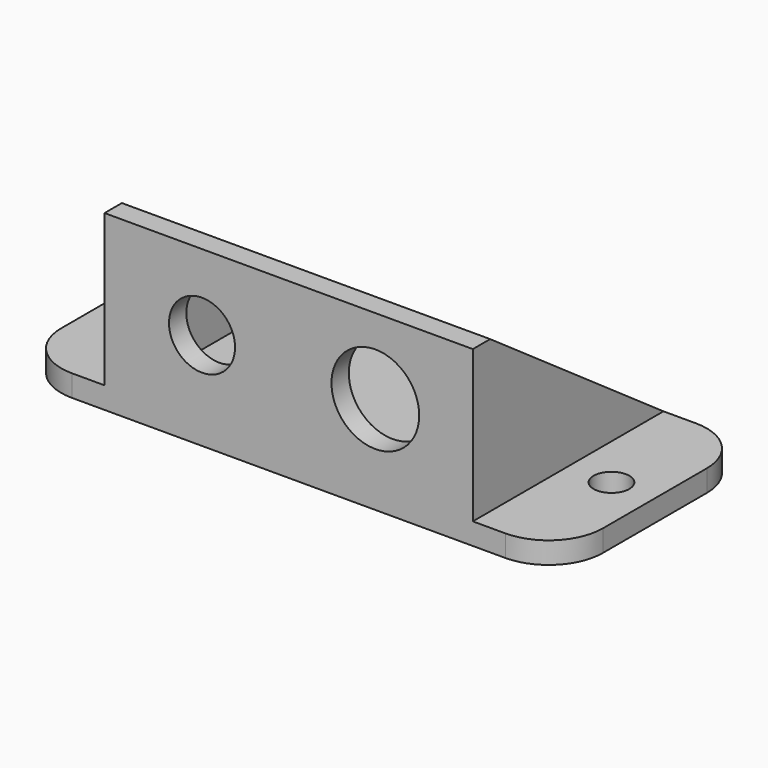
from build123d import *

# Parameters (mm, degrees)
F0_W      = 50
F0_H      = 22
F1_DEPTH  = 2
F2_W      = 34
F2_H      = 2
F3_DEPTH  = 14
F4_R      = 3.05
F4_R_2    = 4.05
F5_DEPTH  = 2
F6_R      = 1.65
F7_DEPTH  = 2
F9_DEPTH  = 2
F11_DEPTH = 2
F12_R     = 5
F13_R     = 5


with BuildPart() as f1:
    # F0 (on Top) → F1 (new body)
    with BuildSketch(Plane.XY):
        Rectangle(F0_W, F0_H)
    extrude(amount=F1_DEPTH)

    # F2 (on face) → F3 (join)
    with BuildSketch(Plane.XY.offset(2)):
        with Locations((0, -10)):
            Rectangle(F2_W, F2_H)
    extrude(amount=F3_DEPTH)

    # F4 (on face) → F5 (cut)
    with BuildSketch(Plane.XZ.offset(11)):
        with Locations((-8, 9)):
            Circle(F4_R)
        with Locations((8, 9)):
            Circle(F4_R_2)
    extrude(amount=-F5_DEPTH, mode=Mode.SUBTRACT)

    # F6 (on face) → F7 (cut)
    with BuildSketch(Plane.XY.offset(2)):
        with Locations((-21, 0)):
            Circle(F6_R)
        with Locations((21, 0)):
            Circle(F6_R)
    extrude(amount=-F7_DEPTH, mode=Mode.SUBTRACT)

    # F8 (on face) → F9 (join)
    with BuildSketch(Plane.YZ.offset(17)):
        Polygon((10.999476, 1.999592), (-9, 16), (-9, 2), align=None)
    extrude(amount=-F9_DEPTH)

    # F10 (on face) → F11 (join)
    with BuildSketch(Plane(origin=(-17, 0, 0), x_dir=(0, -1, 0), z_dir=(-1, 0, 0))):
        Polygon((9, 2), (9, 16), (-10.999475, 1.999864), align=None)
    extrude(amount=-F11_DEPTH)

    # F12
    f12_edges = [f1.edges().sort_by_distance(p)[0] for p in [
        (-25, 11, 1),
        (-25, -11, 1),
    ]]
    fillet(f12_edges, radius=F12_R)

    # F13
    f13_edges = [f1.edges().sort_by_distance(p)[0] for p in [
        (25, -11, 1),
        (25, 11, 1),
    ]]
    fillet(f13_edges, radius=F13_R)


solid = f1.part
